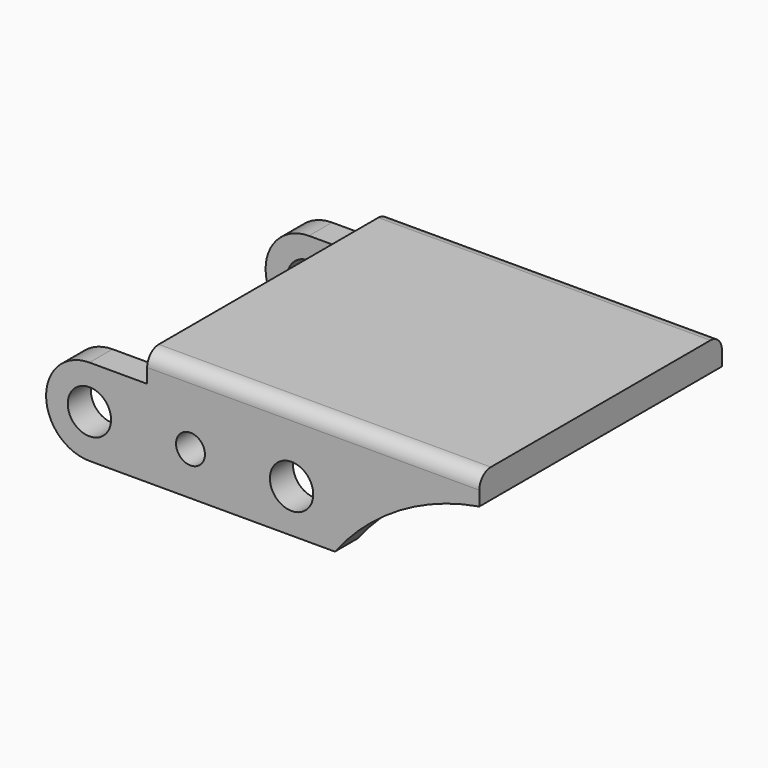
from build123d import *

# Parameters (mm, degrees)
SKETCH002_R       = 1.5
SKETCH002_R_2     = 1
PAD002_DEPTH      = 10.5
SKETCH003_W       = 17
SKETCH003_H       = 9.673154
POCKET_DEPTH      = 27.001
POCKET_DEPTH_BACK = 3.001
FILLET002_R       = 1


with BuildPart() as part:
    # Sketch002 → Pad002 (new body, symmetric)
    with BuildSketch(Plane.XZ):
        with BuildLine():
            ThreePointArc((0, 3), (-3, 0), (0, -3))
            Line((0, -3), (17, -3))
            ThreePointArc((27, 3), (21.433882, 0.94353), (17, -3))
            Line((27, 3), (27, 5))
            Line((27, 5), (4, 5))
            Line((4, 5), (4, 3))
            Line((0, 3), (4, 3))
        make_face()
        Circle(SKETCH002_R, mode=Mode.SUBTRACT)
        with Locations((7, 0)):
            Circle(SKETCH002_R_2, mode=Mode.SUBTRACT)
        with Locations((14, 0)):
            Circle(SKETCH002_R, mode=Mode.SUBTRACT)
    extrude(amount=PAD002_DEPTH, both=True)

    # Sketch003 → Pocket (cut, two sides)
    with BuildSketch(Plane(origin=(0, 0, 0), x_dir=(0, -1, 0), z_dir=(-1, 0, 0))) as pocket_sk:
        with Locations((0, -1.836577)):
            Rectangle(SKETCH003_W, SKETCH003_H)
    extrude(amount=-POCKET_DEPTH, mode=Mode.SUBTRACT)
    extrude(pocket_sk.sketch, amount=POCKET_DEPTH_BACK, mode=Mode.SUBTRACT)

    # Fillet002
    fillet002_edges = [part.edges().sort_by_distance(p)[0] for p in [
        (15.5, 10.5, 5),
        (15.5, -10.5, 5),
    ]]
    fillet(fillet002_edges, radius=FILLET002_R)


with BuildPart() as part_1:
    # Body001 placement: moved
    add(part.part.moved(Location((28, -42, 0))))


solid = part_1.part
